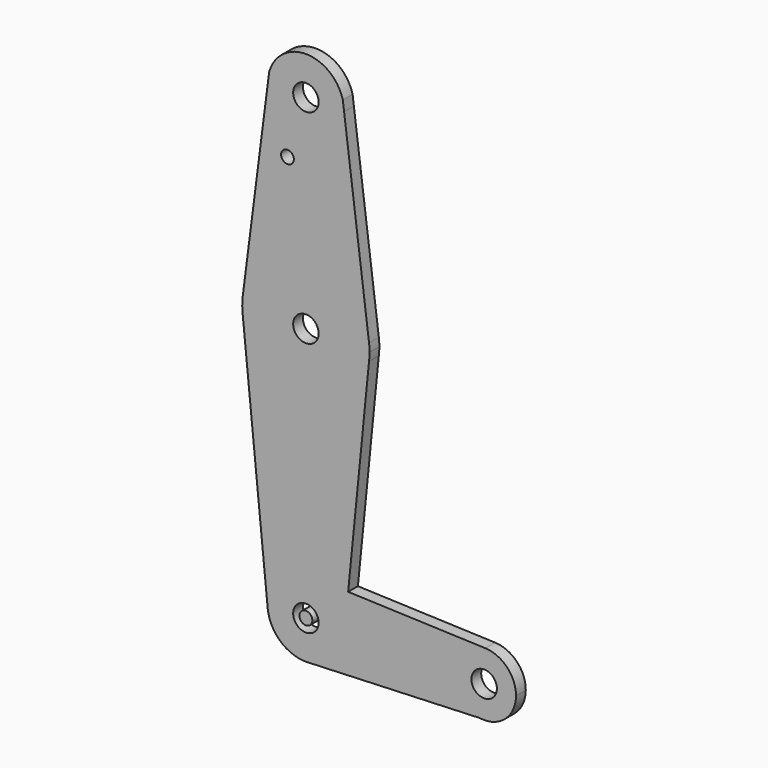
from build123d import *

# Parameters (mm, degrees)
F0_R     = 3.175
F0_R_2   = 1.5875
F1_DEPTH = 3.048
F0_R_3   = 1.6030827538


with BuildPart() as f1:
    # F0 (on Front) → F1 (new body)
    with BuildSketch(Plane.XZ):
        with BuildLine():
            Line((-26.1912255418, 53.9456326982), (-26.5107136938, 56.4479028533))
            ThreePointArc((-26.5107136938, 56.4479028533), (-35.6178969756, 63.5255329582), (-44.8690260117, 56.6371190053))
            Line((-44.8690260117, 56.6371190053), (-45.238004167, 53.7596098512))
            ThreePointArc((-45.238004167, 53.7596098512), (-35.623041676, 44.4764930911), (-26.1912255418, 53.9456326982))
        make_face()
        with Locations((-35.7160643939, 54.0010388426)):
            Circle(F0_R, mode=Mode.SUBTRACT)
        with BuildLine():
            Line((-19.9689007032, 5.2116259952), (-26.1912255418, 53.9456326982))
            ThreePointArc((-26.1912255418, 53.9456326982), (-35.623041676, 44.4764930911), (-45.238004167, 53.7596098512))
            Line((-45.238004167, 53.7596098512), (-51.4621397623, 5.2201315829))
            ThreePointArc((-51.4621397623, 5.2201315829), (-35.7117769277, 19.0760382637), (-19.9689007032, 5.2116259952))
        make_face()
        with Locations((-40.3018545222, 39.4372191593)):
            Circle(F0_R_2, mode=Mode.SUBTRACT)
        with BuildLine():
            ThreePointArc((-19.8410643939, 3.2010388426), (-19.8730557057, 4.208362378), (-19.9689007032, 5.2116259952))
            ThreePointArc((-19.9689007032, 5.2116259952), (-35.7117769277, 19.0760382637), (-51.4621397623, 5.2201315829))
            ThreePointArc((-51.4621397623, 5.2201315829), (-51.5862226789, 3.593086045), (-51.5426292703, 1.9618983283))
            Line((-51.5426292703, 1.9618983283), (-51.4759981556, 1.2931308714))
            ThreePointArc((-51.4759981556, 1.2931308714), (-35.7677995101, -12.6738768572), (-19.9689007032, 1.1904516901))
            ThreePointArc((-19.9689007032, 1.1904516901), (-19.8730557057, 2.1937153072), (-19.8410643939, 3.2010388426))
        make_face()
        with Locations((-35.7160643939, 3.2010388426)):
            Circle(F0_R, mode=Mode.SUBTRACT)
        with BuildLine():
            Line((-25.1776294117, -51.1102047959), (-19.9689007032, 1.1904516901))
            ThreePointArc((-19.9689007032, 1.1904516901), (-35.7677995101, -12.6738768572), (-51.4759981556, 1.2931308714))
            Line((-51.4759981556, 1.2931308714), (-45.2448221586, -61.2483371245))
            ThreePointArc((-45.2448221586, -61.2483371245), (-42.8149974905, -53.87216661), (-35.7160643939, -50.7230257323))
            ThreePointArc((-35.7160643939, -50.7230257323), (-35.3644844891, -50.7294820266), (-35.0133786691, -50.7488422033))
            Line((-35.0133786691, -50.7488422033), (-25.1776294117, -51.1102047959))
        make_face()
        with BuildLine():
            ThreePointArc((-35.7160643939, -50.7230257323), (-42.8149974905, -53.87216661), (-45.2448221586, -61.2483371245))
            ThreePointArc((-45.2448221586, -61.2483371245), (-41.9995613718, -67.5250392772), (-35.3330150866, -69.8672322913))
            ThreePointArc((-35.3330150866, -69.8672322913), (-29.1484040942, -67.2677757948), (-26.1872683979, -61.247953323))
            ThreePointArc((-26.1872683979, -61.247953323), (-26.1519210868, -60.7740422705), (-26.1401289689, -60.2989611574))
            ThreePointArc((-26.1401289689, -60.2989611574), (-28.7008162733, -53.7809221064), (-35.0133786691, -50.7488422033))
            Line((-35.0133786691, -50.7488422033), (-35.7160643939, -50.7230257323))
        make_face()
        with Locations((-35.7160643939, -60.2989611574)):
            Circle(F0_R, mode=Mode.SUBTRACT)
        with BuildLine():
            Line((-26.1872683979, -61.247953323), (-25.1776294117, -51.1102047959))
            Line((-25.1776294117, -51.1102047959), (-35.0133786691, -50.7488422033))
            ThreePointArc((-35.0133786691, -50.7488422033), (-28.7008162733, -53.7809221064), (-26.1401289689, -60.2989611574))
            ThreePointArc((-26.1401289689, -60.2989611574), (-26.1519210868, -60.7740422705), (-26.1872683979, -61.247953323))
        make_face()
        with BuildLine():
            Line((9.0253604508, -52.3668127845), (-25.1776294117, -51.1102047959))
            Line((-25.1776294117, -51.1102047959), (-26.1872683979, -61.247953323))
            ThreePointArc((-26.1872683979, -61.247953323), (-29.1484040942, -67.2677757948), (-35.3330150866, -69.8672322913))
            Line((-35.3330150866, -69.8672322913), (7.564828841, -68.1498907598))
            ThreePointArc((7.564828841, -68.1498907598), (0.8302042732, -59.5675670994), (9.0253604508, -52.3668127845))
        make_face()
        with BuildLine():
            ThreePointArc((16.6714356061, -60.2989611574), (14.4487011724, -54.7902988177), (9.0253604508, -52.3668127845))
            ThreePointArc((9.0253604508, -52.3668127845), (0.8302042732, -59.5675670994), (7.564828841, -68.1498907598))
            ThreePointArc((7.564828841, -68.1498907598), (13.9167978125, -66.3107700032), (16.6714356061, -60.2989611574))
        make_face()
        with Locations((8.7339356061, -60.2989611574)):
            Circle(F0_R, mode=Mode.SUBTRACT)
    extrude(amount=F1_DEPTH)


with BuildPart() as f1b:
    # F0 (on Front) → F1, piece 2 (new body)
    with BuildSketch(Plane.XZ):
        with Locations((-35.7160643939, -60.2989611574)):
            Circle(F0_R_3)
    extrude(amount=F1_DEPTH)


solid = Compound([f1.part, f1b.part])
